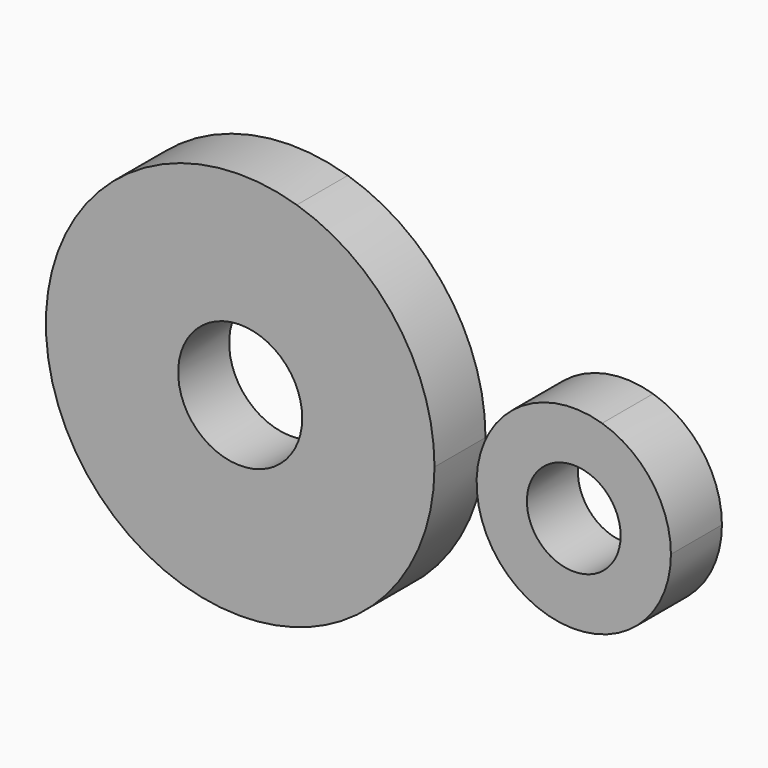
from build123d import *

# Parameters (mm, degrees)
F0_R     = 24.323969
F0_R_2   = 18.385509
F1_DEPTH = 25


with BuildPart() as f1:
    # F0 (on Front) → F1 (new body)
    with BuildSketch(Plane.XZ):
        with BuildLine():
            ThreePointArc((39.57646, -65.116387), (66.415985, -37.354476), (76.2, 0))
            ThreePointArc((76.2, 0), (61.227592, 45.361018), (22.194175, 72.896218))
            ThreePointArc((22.194175, 72.896218), (-75.369529, 11.219362), (0, -76.2))
            Line((0, -76.2), (39.57646, -65.116387))
        make_face()
        Circle(F0_R, mode=Mode.SUBTRACT)
        with BuildLine():
            ThreePointArc((168.91, 0), (161.423796, 22.680509), (141.907087, 36.448109))
            ThreePointArc((141.907087, 36.448109), (100.196204, -22.680509), (168.91, 0))
        make_face()
        with Locations((130.81, 0)):
            Circle(F0_R_2, mode=Mode.SUBTRACT)
        with BuildLine():
            ThreePointArc((0, -76.2), (20.54959, -73.376797), (39.57646, -65.116387))
            Line((39.57646, -65.116387), (0, -76.2))
        make_face()
    extrude(amount=F1_DEPTH)


solid = f1.part
